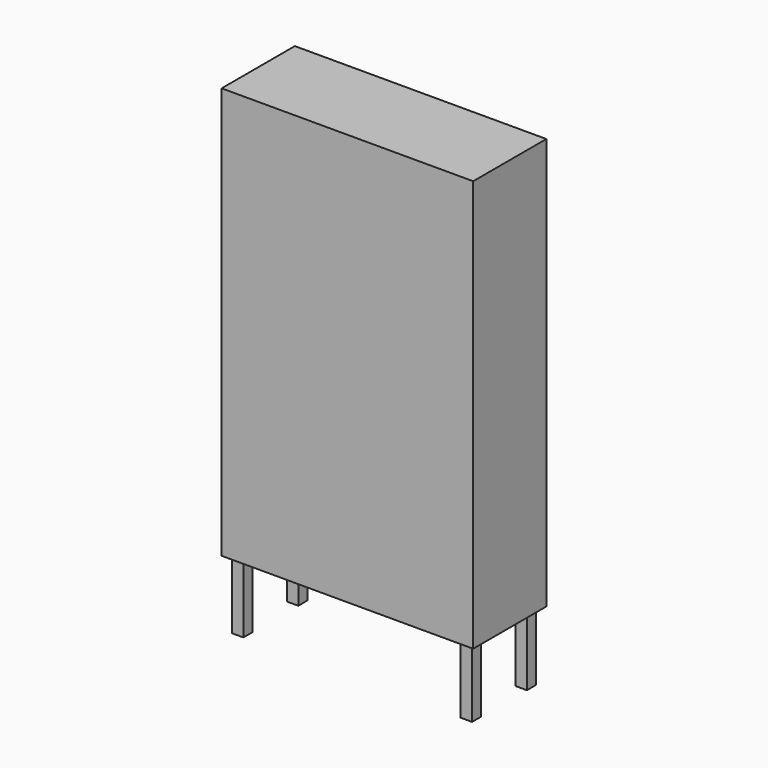
from build123d import *

# Parameters (mm, degrees)
F1_W     = 1100
F1_H     = 400
F2_DEPTH = 1800
F3_W     = 50
F3_H     = 50
F4_DEPTH = 1800


with BuildPart() as f2:
    # F1 (on offset) → F2 (new body)
    with BuildSketch(Plane.XY.offset(300)):
        with Locations((550, 200)):
            Rectangle(F1_W, F1_H)
    extrude(amount=F2_DEPTH)

    # F3 (on Top) → F4 (join)
    with BuildSketch(Plane.XY):
        with Locations((50, 50)):
            Rectangle(F3_W, F3_H)
        with Locations((1050, 50)):
            Rectangle(F3_W, F3_H)
        with Locations((1050, 350)):
            Rectangle(F3_W, F3_H)
        with Locations((50, 350)):
            Rectangle(F3_W, F3_H)
    extrude(amount=F4_DEPTH)


solid = f2.part
